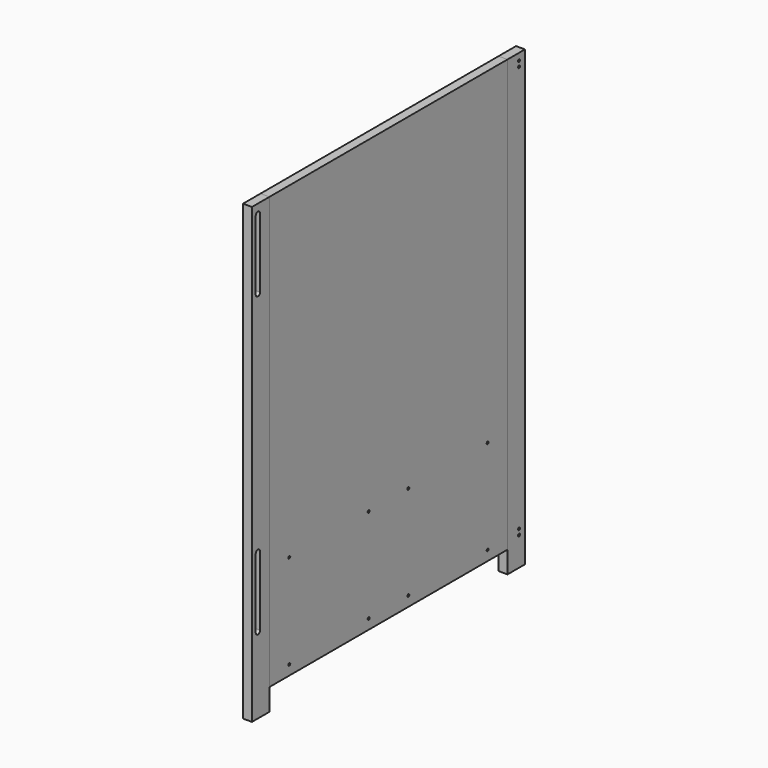
from build123d import *

# Parameters (mm, degrees)
F0_W     = 600
F0_H     = 870
F1_DEPTH = 18
F2_W     = 18
F2_H     = 44
F3_DEPTH = 914
F4_R     = 2.5
F5_DEPTH = 18


with BuildPart() as f1:
    # F0 (on Right) → F1 (new body)
    with BuildSketch(Plane.YZ):
        Rectangle(F0_W, F0_H)
    extrude(amount=F1_DEPTH)


with BuildPart() as f3:
    # F2 (on face) → F3 (new body)
    with BuildSketch(Plane.XY.offset(435)):
        with Locations((9, -322)):
            Rectangle(F2_W, F2_H)
        with Locations((9, 322)):
            Rectangle(F2_W, F2_H)
    extrude(amount=-F3_DEPTH)


with BuildPart() as f5_tool:
    # F4 (on face) → F5 (new body)
    with BuildSketch(Plane.YZ.offset(18)):
        with Locations((250, -415)):
            Circle(F4_R)
        with Locations((250, -225)):
            Circle(F4_R)
        with Locations((50, -225)):
            Circle(F4_R)
        with Locations((50, -415)):
            Circle(F4_R)
        with Locations((-250, -415)):
            Circle(F4_R)
        with Locations((-50, -225)):
            Circle(F4_R)
        with Locations((-50, -415)):
            Circle(F4_R)
        with Locations((-250, -225)):
            Circle(F4_R)
        with Locations((329, 421)):
            Circle(F4_R)
        with Locations((329, 410)):
            Circle(F4_R)
        with Locations((329, -410)):
            Circle(F4_R)
        with Locations((329, -421)):
            Circle(F4_R)
        with BuildLine():
            Line((-323.5, 345.5), (-323.5, 415.5))
            ThreePointArc((-323.5, 415.5), (-329, 421), (-334.5, 415.5))
            Line((-334.5, 415.5), (-334.5, 345.5))
            Line((-334.5, 345.5), (-323.5, 345.5))
        make_face()
        with BuildLine():
            Line((-323.5, 275.5), (-323.5, 345.5))
            Line((-323.5, 345.5), (-334.5, 345.5))
            Line((-334.5, 345.5), (-334.5, 275.5))
            ThreePointArc((-334.5, 275.5), (-329, 270), (-323.5, 275.5))
        make_face()
        with BuildLine():
            ThreePointArc((-323.5, -184.5), (-329, -179), (-334.5, -184.5))
            Line((-334.5, -184.5), (-334.5, -324.5))
            ThreePointArc((-334.5, -324.5), (-329, -330), (-323.5, -324.5))
            Line((-323.5, -324.5), (-323.5, -184.5))
        make_face()
    extrude(amount=-F5_DEPTH)


with BuildPart() as f1_1:
    add(f1.part)

    # F5: cut by f5_tool
    add(f5_tool.part, mode=Mode.SUBTRACT)


with BuildPart() as f3_1:
    add(f3.part)

    # F5: cut by f5_tool
    add(f5_tool.part, mode=Mode.SUBTRACT)


solid = Compound([f1_1.part, f3_1.part])
